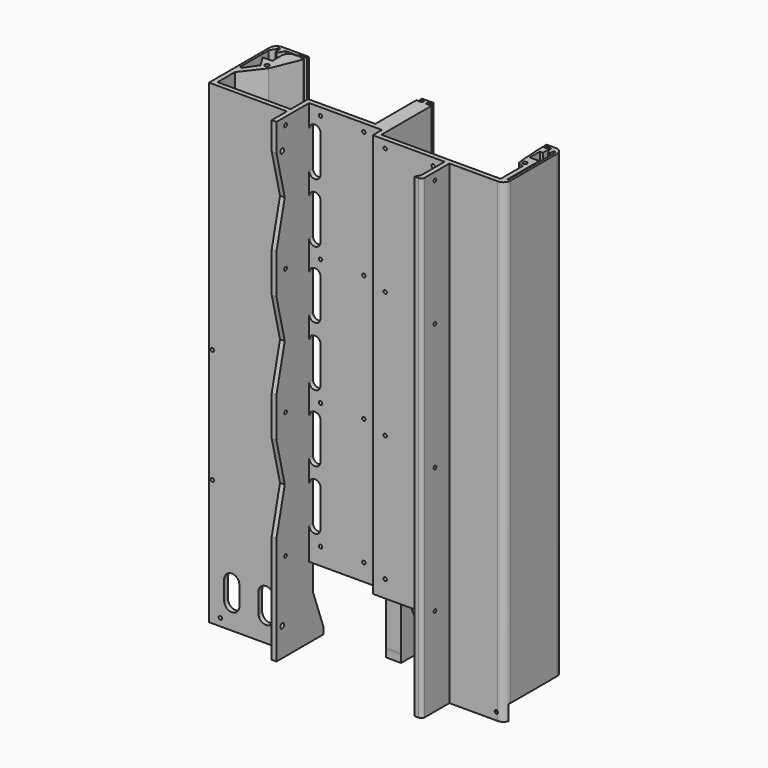
from build123d import *

# Parameters (mm, degrees)
SKETCH001_R         = 2.25
PAD_DEPTH           = 500
SKETCH_W            = 54.837312
SKETCH_H            = 30
POCKET_DEPTH        = 25
POCKET_TAPER        = 25
SKETCH002_W         = 152.2
SKETCH002_H         = 62
POCKET001_DEPTH     = 75
POCKET004_DEPTH     = 60
SKETCH018_W         = 5
SKETCH018_H         = 18.5
PAD001_DEPTH        = 45
CHAMFER_ANGLE       = 70
CHAMFER_SIZE        = 13.99
SKETCH006_R         = 1.8
POCKET005_DEPTH     = 55
LINEARPATTERN_COUNT = 3
LINEARPATTERN_PITCH = 133
SKETCH007_W         = 7.7
SKETCH007_H         = 8.1
POCKET006_DEPTH     = 16
SKETCH008_R         = 1.8
POCKET007_DEPTH     = 89
SKETCH_1_R          = 2.25
POCKET008_DEPTH     = 215
SKETCH009_R         = 2.15
POCKET009_DEPTH     = 12.5
SKETCH010_R         = 1.8
SKETCH010_R_2       = 2.15
POCKET010_DEPTH     = 38
POCKET011_DEPTH     = 35
SKETCH012_W         = 21.616913
SKETCH012_H         = 21.616913
POCKET012_DEPTH     = 12
SKETCH017_R         = 2.5
POCKET014_DEPTH     = 83


with BuildPart() as part:
    # Sketch001 → Pad (new body)
    with BuildSketch(Plane.XY):
        with BuildLine():
            Line((34.6, 107), (29.6, 107))
            Line((29.6, 107), (29.6, 109))
            Line((29.6, 109), (27.6, 109))
            Line((27.6, 107.51), (27.6, 109))
            Line((24, 107.51), (27.6, 107.51))
            ThreePointArc((24, 107.51), (18.696699, 105.313301), (16.5, 100.01))
            Line((16.5, 100.01), (16.5, 87.6))
            Line((16.5, 87.6), (6.4, 87.6))
            Line((6.4, 87.6), (13.789327, 75.642227))
            Line((13.789327, 75.642227), (5.01, 62.503785))
            Line((5.01, 62.503785), (2.51, 62.503785))
            Line((2.51, 62.503785), (2.51, 100.408261))
            Line((2.51, 100.408261), (6, 106.453118))
            Line((6, 106.453118), (6, 108.6))
            Line((6, 108.6), (8, 108.6))
            Line((8, 108.6), (8.4, 105.433891))
            Line((8.4, 105.433891), (8.4, 102.6))
            Line((8.4, 102.6), (9.266025, 101.1))
            Line((9.266025, 101.1), (10.266025, 101.1))
            Line((10.266025, 101.1), (14.313251, 108.11))
            Line((14.313251, 108.11), (27, 108.11))
            Line((27, 108.11), (27, 109.6))
            Line((27, 109.6), (35.6, 109.6))
            Line((35.6, 109.6), (35.6, 112.11))
            Line((35.6, 112.11), (7.5, 112.11))
            ThreePointArc((7.5, 112.11), (2.196699, 109.913301), (0, 104.61))
            Line((0, 104.61), (0, 25))
            Line((0, 25), (82, 25))
            Line((82, 25), (82, 5))
            Line((82, 5), (87, 5))
            Line((87, 5), (87, 48))
            Line((87, 48), (163.6, 48))
            Line((163.6, 48), (163.6, 36))
            Line((163.6, 36), (239.2, 36))
            Line((239.2, 36), (239.2, 5))
            Line((239.2, 5), (236.313249, 0))
            Line((240.737305, 0), (236.313249, 0))
            ThreePointArc((240.737305, 0), (243.1858, 1.0142), (244.2, 3.462695))
            Line((244.2, 5), (244.2, 3.462695))
            Line((244.2, 36), (244.2, 5))
            Line((244.2, 36), (295.1, 36))
            ThreePointArc((295.1, 36), (300.403301, 38.196699), (302.6, 43.5))
            Line((302.6, 43.5), (302.6, 104.61))
            ThreePointArc((302.6, 104.61), (300.403301, 109.913301), (295.1, 112.11))
            Line((295.1, 112.11), (285.6, 112.11))
            Line((285.6, 112.11), (285.6, 109.6))
            Line((285.6, 109.6), (291.6, 109.6))
            Line((291.6, 109.6), (291.6, 108.8))
            Line((291.6, 108.8), (293.1, 108.8))
            Line((293.1, 108.8), (293.1, 106.001408))
            Line((293.1, 106.001408), (296.235077, 100.571296))
            Line((296.235077, 100.571296), (297.2, 102.169525))
            Line((297.2, 102.169525), (297.2, 104.659164))
            Line((297.2, 104.659164), (297.6, 106.6))
            Line((297.6, 106.6), (299.6, 106.6))
            Line((300.09, 103.643394), (299.6, 106.6))
            Line((300.09, 98.051295), (300.09, 103.643394))
            Line((300.09, 98.051295), (300.09, 44))
            Line((300.09, 44), (299.09, 44))
            Line((299.09, 85.6), (299.09, 44))
            Line((289.1, 85.6), (299.09, 85.6))
            Line((289.1, 98.9), (289.1, 85.6))
            Line((292.3, 98.9), (289.1, 98.9))
            Line((292.3, 108), (292.3, 98.9))
            Line((291.6, 108), (292.3, 108))
            Line((291.6, 108), (291.6, 107))
            Line((291.6, 107), (285.6, 107))
            Line((285.6, 107), (285.6, 104))
            Line((285.6, 104), (286.7, 85.6))
            Line((286.7, 85.6), (286.7, 82.6))
            Line((286.7, 82.6), (287.99, 72.797142))
            Line((287.99, 72.797142), (294.09, 70))
            Line((294.09, 70), (294.09, 41))
            Line((294.09, 41), (244.2, 41))
            Line((244.2, 41), (168.6, 41))
            Line((168.6, 41), (168.6, 107))
            Line((168.6, 107), (162.6, 107))
            Line((162.6, 107), (162.6, 109.6))
            Line((162.6, 109.6), (166.6, 109.6))
            Line((166.6, 109.6), (166.6, 112.11))
            Line((166.6, 112.11), (154.6, 112.11))
            Line((154.6, 112.11), (154.6, 109.6))
            Line((154.6, 109.6), (158.6, 109.6))
            Line((158.6, 109.6), (158.6, 107))
            Line((158.6, 107), (152.6, 107))
            Line((152.6, 107), (152.6, 53))
            Line((152.6, 53), (82, 53))
            Line((82, 53), (82, 30))
            Line((82, 30), (5, 30))
            Line((5, 30), (5, 53))
            Line((5, 53), (22.512297, 75.48069))
            Line((22.512297, 75.48069), (34.6, 105))
            Line((34.6, 105), (34.6, 107))
        make_face()
        with Locations((18, 79)):
            Circle(SKETCH001_R, mode=Mode.SUBTRACT)
        with Locations((292, 75.6)):
            Circle(SKETCH001_R, mode=Mode.SUBTRACT)
    extrude(amount=PAD_DEPTH)

    # Sketch (on DatumPlane) → Pocket (cut)
    with BuildSketch(Plane.XY.offset(60)):
        with Locations((166.771042, 88.516058)):
            Rectangle(SKETCH_W, SKETCH_H)
    extrude(amount=-POCKET_DEPTH, taper=POCKET_TAPER, mode=Mode.SUBTRACT)

    # Sketch002 → Pocket001 (cut)
    with BuildSketch(Plane.XY):
        with Locations((163.1, 36)):
            Rectangle(SKETCH002_W, SKETCH002_H)
    extrude(amount=POCKET001_DEPTH, mode=Mode.SUBTRACT)

    # Sketch005 → Pocket004 (cut)
    with BuildSketch(Plane.XY):
        Polygon((-6.844853, 120.411064), (158.6, 120.411064), (158.6, 107), (152.6, 107), (152.6, 55.726177), (64.54818, 55.726177), (51.496407, 43.876517), (5, 43.876517), (5, 30), (-6.844853, 30), align=None)
    extrude(amount=POCKET004_DEPTH, mode=Mode.SUBTRACT)

    # Sketch018 → Pad001 (join)
    with BuildSketch(Plane.XY):
        with Locations((84.5, 57.75)):
            Rectangle(SKETCH018_W, SKETCH018_H)
    extrude(amount=PAD001_DEPTH)

    # Chamfer
    chamfer_edges = [part.edges().sort_by_distance(p)[0] for p in [
        (84.5, 67, 45),
    ]]
    chamfer_side = part.faces().sort_by_distance((84.5, 60, 45))[0]
    chamfer(chamfer_edges, length=CHAMFER_SIZE, angle=CHAMFER_ANGLE, reference=chamfer_side)

    # Sketch006 (on DatumPlane) → Pocket005 (cut)
    with BuildSketch(Plane.XZ.offset(-7)):
        with Locations((99, 492)):
            Circle(SKETCH006_R)
        with Locations((227.2, 492)):
            Circle(SKETCH006_R)
        with Locations((144.6, 492)):
            Circle(SKETCH006_R)
        with Locations((176.6, 492)):
            Circle(SKETCH006_R)
        with Locations((144.6, 359)):
            Circle(SKETCH006_R)
        with Locations((176.6, 359)):
            Circle(SKETCH006_R)
        with Locations((227.2, 359)):
            Circle(SKETCH006_R)
        with Locations((99, 359)):
            Circle(SKETCH006_R)
        with BuildLine():
            ThreePointArc((99, 476), (93, 482), (87, 476))
            Line((87, 476), (87, 437.5))
            ThreePointArc((87, 437.5), (93, 431.5), (99, 437.5))
            Line((99, 437.5), (99, 476))
        make_face()
        with BuildLine():
            ThreePointArc((99, 413.5), (93, 419.5), (87, 413.5))
            Line((87, 413.5), (87, 375))
            ThreePointArc((87, 375), (93, 369), (99, 375))
            Line((99, 375), (99, 413.5))
        make_face()
        with BuildLine():
            ThreePointArc((239.2, 476), (233.2, 482), (227.2, 476))
            Line((227.2, 476), (227.2, 437.5))
            ThreePointArc((227.2, 437.5), (233.2, 431.5), (239.2, 437.5))
            Line((239.2, 437.5), (239.2, 476))
        make_face()
        with BuildLine():
            ThreePointArc((239.2, 413.5), (233.2, 419.5), (227.2, 413.5))
            Line((227.2, 413.5), (227.2, 375))
            ThreePointArc((227.2, 375), (233.2, 369), (239.2, 375))
            Line((239.2, 375), (239.2, 413.5))
        make_face()
    pocket005 = extrude(amount=-POCKET005_DEPTH, mode=Mode.SUBTRACT)

    # LinearPattern: Pocket005 ×3
    with Locations(*[(0, 0, -i * LINEARPATTERN_PITCH) for i in range(1, LINEARPATTERN_COUNT)]):
        add(pocket005, mode=Mode.SUBTRACT)

    # Sketch007 → Pocket006 (cut)
    with BuildSketch(Plane.XY):
        Polygon((168.6, 41), (168.6, 164.6), (385.570154, 164.6), (385.570154, 87), (396.6, 87), (396.6, 5), (365.456284, 5), (352.941986, 41), align=None)
        with Locations((289.15, 102.95)):
            Rectangle(SKETCH007_W, SKETCH007_H, mode=Mode.SUBTRACT)
    extrude(amount=POCKET006_DEPTH, mode=Mode.SUBTRACT)

    # Sketch008 (on DatumPlane) → Pocket007 (cut, symmetric)
    with BuildSketch(Plane.YZ.offset(160.6)):
        with Locations((17, 492)):
            Circle(SKETCH008_R)
        with Locations((17, 359)):
            Circle(SKETCH008_R)
        with Locations((17, 93)):
            Circle(SKETCH008_R)
        with Locations((17, 226)):
            Circle(SKETCH008_R)
    extrude(amount=POCKET007_DEPTH, both=True, mode=Mode.SUBTRACT)

    # Sketch_1 (on DatumPlane) → Pocket008 (cut, symmetric)
    with BuildSketch(Plane.XY.offset(250)):
        with Locations((160.6, 85)):
            Circle(SKETCH_1_R)
    extrude(amount=POCKET008_DEPTH, both=True, mode=Mode.SUBTRACT)

    # Sketch009 (on DatumPlane) → Pocket009 (cut, symmetric)
    with BuildSketch(Plane.YZ.offset(160.6)):
        with Locations((65, 8)):
            Circle(SKETCH009_R)
        with Locations((95, 8)):
            Circle(SKETCH009_R)
        Polygon((68, 60), (53, 82.974855), (68, 105.949709), (83, 82.974855), align=None)
        Polygon((53, 214.874273), (68, 237.849127), (83, 214.874273), (68, 191.899418), align=None)
        Polygon((53, 148.924564), (68, 171.899418), (83, 148.924564), (68, 125.949709), align=None)
    extrude(amount=POCKET009_DEPTH, both=True, mode=Mode.SUBTRACT)

    # Sketch010 → Pocket010 (cut)
    with BuildSketch(Plane.XZ):
        with Locations((12, 8)):
            Circle(SKETCH010_R)
        with Locations((70, 8)):
            Circle(SKETCH010_R)
        with Locations((98, 8)):
            Circle(SKETCH010_R)
        with Locations((293.6, 8)):
            Circle(SKETCH010_R)
        with Locations((144.6, 8)):
            Circle(SKETCH010_R)
        with Locations((227.2, 8)):
            Circle(SKETCH010_R_2)
        with Locations((176.6, 8)):
            Circle(SKETCH010_R)
        with Locations((3.5, 253.5)):
            Circle(SKETCH010_R)
        with Locations((3.5, 133)):
            Circle(SKETCH010_R)
    extrude(amount=-POCKET010_DEPTH, mode=Mode.SUBTRACT)

    # Sketch011 → Pocket011 (cut)
    with BuildSketch(Plane.XZ):
        with BuildLine():
            ThreePointArc((16, 25), (24, 17), (32, 25))
            Line((32, 25), (32, 45))
            ThreePointArc((32, 45), (24, 53), (16, 45))
            Line((16, 45), (16, 25))
        make_face()
        with BuildLine():
            ThreePointArc((68, 45), (60, 53), (52, 45))
            Line((52, 45), (52, 25))
            ThreePointArc((52, 25), (60, 17), (68, 25))
            Line((68, 25), (68, 45))
        make_face()
    extrude(amount=-POCKET011_DEPTH, mode=Mode.SUBTRACT)

    # Sketch012 → Pocket012 (cut)
    with BuildSketch(Plane.XY):
        with Locations((288.547379, 102.250382)):
            Rectangle(SKETCH012_W, SKETCH012_H)
    extrude(amount=POCKET012_DEPTH, mode=Mode.SUBTRACT)

    # Sketch017 (on DatumPlane) → Pocket014 (cut)
    with BuildSketch(Plane.YZ.offset(160.6)):
        with Locations((12.5, 470)):
            Circle(SKETCH017_R)
        with Locations((12.5, 30)):
            Circle(SKETCH017_R)
        Polygon((0, 93), (15.916191, 159.5), (0, 226), (15.916191, 292.5), (0, 359), (15.916191, 425.5), (0, 492), (-10.253188, 492), (-10.253188, 93), align=None)
    extrude(amount=-POCKET014_DEPTH, mode=Mode.SUBTRACT)


solid = part.part
